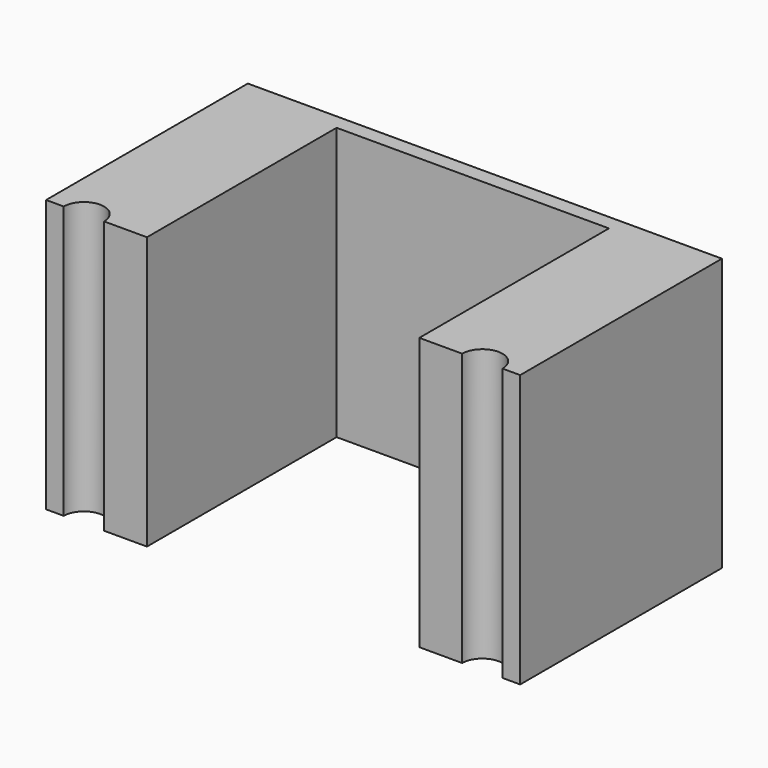
from build123d import *

# Parameters (mm, degrees)
PAD_DEPTH       = 27
SKETCH001_R     = 2
POCKET_DEPTH    = 27.001
SKETCH002_R     = 1.45
POCKET001_DEPTH = 10


with BuildPart() as part:
    # Sketch → Pad (new body)
    with BuildSketch(Plane.XY):
        Polygon((13.5, 0), (13.5, 23.5), (-13.5, 23.5), (-13.5, 0), (-23.5, 0), (-23.5, 25), (23.5, 25), (23.5, 0), align=None)
    extrude(amount=PAD_DEPTH)

    # Sketch001 → Pocket (cut, through all)
    with BuildSketch(Plane.XY):
        with Locations((-19.75, 0)):
            Circle(SKETCH001_R)
        with Locations((19.75, 0)):
            Circle(SKETCH001_R)
    extrude(amount=POCKET_DEPTH, mode=Mode.SUBTRACT)

    # Sketch002 (on DatumPlane) → Pocket001 (cut)
    with BuildSketch(Plane.XZ.offset(-25)):
        with Locations((-18.25, 5)):
            Circle(SKETCH002_R)
        with Locations((18.25, 5)):
            Circle(SKETCH002_R)
    extrude(amount=POCKET001_DEPTH, mode=Mode.SUBTRACT)


solid = part.part
